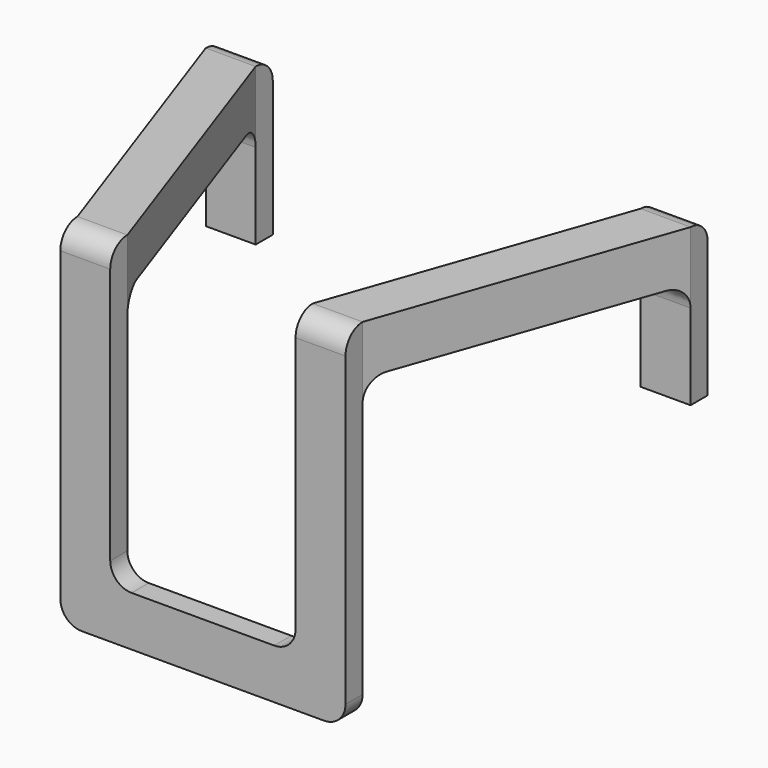
from build123d import *

# Parameters (mm, degrees)
F1_DEPTH = 3
F2_W     = 7
F2_H     = 7
F4_W     = 7
F4_H     = 7
F6_W     = 7
F6_H     = 22
F7_DEPTH = 3
F8_R     = 3


with BuildPart() as f1:
    # F0 (on Front) → F1 (new body)
    with BuildSketch(Plane.XZ):
        Polygon((-13, 49), (-20, 49), (-20, 0), (0, 0), (0, 7), (-13, 7), align=None)
    extrude(amount=F1_DEPTH)

    # F2 (on face) → F5 section 0
    with BuildSketch(Plane(origin=(0, 0, 0), x_dir=(-1, 0, 0), z_dir=(0, 1, 0))):
        with Locations((16.5, 45.5)):
            Rectangle(F2_W, F2_H)
    # F4 (on offset) → F5 section 1
    with BuildSketch(Plane(origin=(0, 40, 0), x_dir=(-1, 0, 0), z_dir=(0, 1, 0))):
        with Locations((30.5, 45.5)):
            Rectangle(F4_W, F4_H)
    loft()

    # F6 (on face) → F7 (join)
    with BuildSketch(Plane(origin=(0, 40, 0), x_dir=(-1, 0, 0), z_dir=(0, 1, 0))):
        with Locations((30.5, 38)):
            Rectangle(F6_W, F6_H)
    extrude(amount=F7_DEPTH)

    # F8
    f8_edges = [f1.edges().sort_by_distance(p)[0] for p in [
        (-13, -1.5, 7),
        (-20, -1.5, 0),
        (-16.5, -3, 49),
        (-16.5, 0, 42),
        (-30.5, 40, 42),
        (-30.5, 43, 49),
    ]]
    fillet(f8_edges, radius=F8_R)

    # F9: F1 across plane


with BuildPart() as f1_1:
    add(f1.part)
    add(f1.part.mirror(Plane.YZ))


solid = f1_1.part
